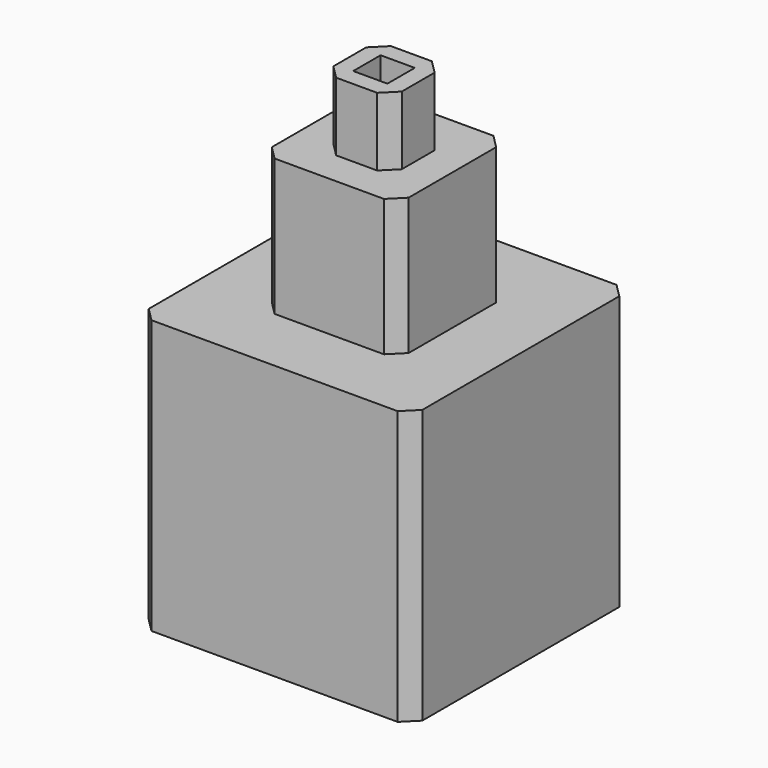
from build123d import *

# Parameters (mm, degrees)
F0_W     = 101.6
F0_H     = 101.6
F1_DEPTH = 101.6
F2_W     = 50.8
F2_H     = 50.8
F3_DEPTH = 50.8
F4_W     = 25.4
F4_H     = 25.4
F5_DEPTH = 25.4
F6_W     = 12.7
F6_H     = 12.7
F7_DEPTH = 127
F8_SIZE  = 5.08
F9_SIZE  = 5.08


with BuildPart() as f1:
    # F0 (on Front) → F1 (new body)
    with BuildSketch(Plane.XZ):
        with Locations((11.804756, -5.545579)):
            Rectangle(F0_W, F0_H)
    extrude(amount=F1_DEPTH)

    # F2 (on face) → F3 (join)
    with BuildSketch(Plane.XY.offset(45.254421)):
        with Locations((11.804756, -50.8)):
            Rectangle(F2_W, F2_H)
    extrude(amount=F3_DEPTH)

    # F4 (on face) → F5 (join)
    with BuildSketch(Plane.XY.offset(96.054421)):
        with Locations((11.804756, -50.8)):
            Rectangle(F4_W, F4_H)
    extrude(amount=F5_DEPTH)

    # F6 (on face) → F7 (cut)
    with BuildSketch(Plane.XY.offset(121.454421)):
        with Locations((11.804756, -50.8)):
            Rectangle(F6_W, F6_H)
    extrude(amount=-F7_DEPTH, mode=Mode.SUBTRACT)

    # F8
    f8_edges = [f1.edges().sort_by_distance(p)[0] for p in [
        (-38.995244, 0, -5.545579),
        (62.604756, 0, -5.545579),
        (62.604756, -101.6, -5.545579),
        (-38.995244, -101.6, -5.545579),
    ]]
    chamfer(f8_edges, length=F8_SIZE)

    # F9
    f9_edges = [f1.edges().sort_by_distance(p)[0] for p in [
        (37.204756, -76.2, 70.654421),
        (37.204756, -25.4, 70.654421),
        (-13.595244, -25.4, 70.654421),
        (-13.595244, -76.2, 70.654421),
        (-0.895244, -63.5, 108.754421),
        (-0.895244, -38.1, 108.754421),
        (24.504756, -63.5, 108.754421),
        (24.504756, -38.1, 108.754421),
    ]]
    chamfer(f9_edges, length=F9_SIZE)


with BuildPart() as f11:
    # F10 (on Right) → F11 (revolve)
    with BuildSketch(Plane.YZ):
        Polygon((-52.632906, -56.431413), (-66.021942, -56.431413), (-66.021942, -75.915575), align=None)
    revolve(axis=Axis((0, -66.021942, -66.173494), (0, 0, -1)))


with BuildPart() as f11_1:
    # F12: moved
    add(f11.part.moved(Location((14.986, 13.716, 0))))


solid = Compound([f1.part, f11_1.part])
